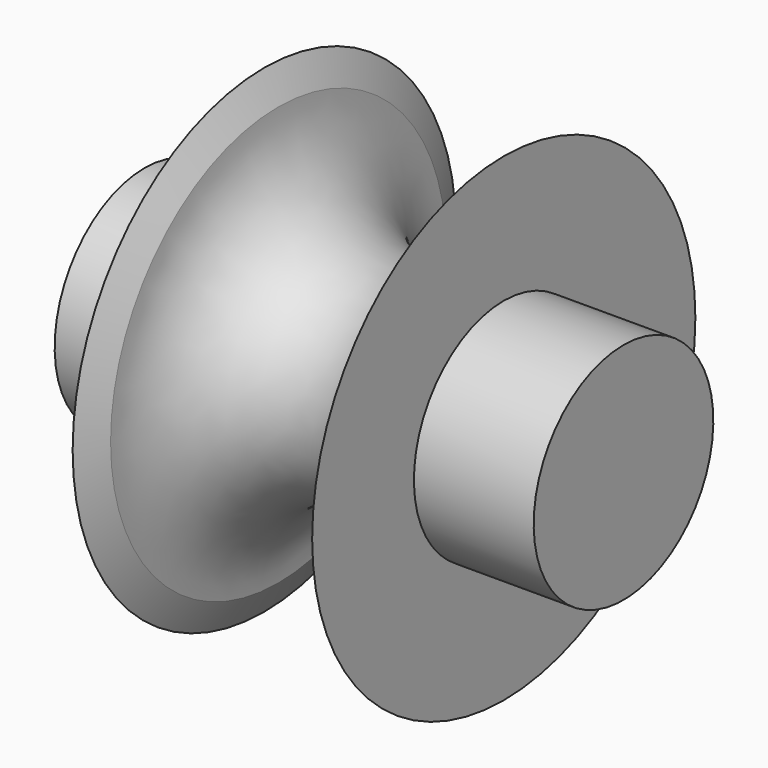
from build123d import *

# Parameters (mm, degrees)
F0_W = 12.7
F0_H = 11.90625


with BuildPart() as f1:
    # F0 (on Front) → F1 (revolve)
    with BuildSketch(Plane.XZ):
        with Locations((-31.75, 5.953125)):
            Rectangle(F0_W, F0_H)
        with BuildLine():
            Line((-25.4, 11.90625), (-25.4, 0))
            Line((-25.4, 0), (0, 0))
            Line((0, 0), (0, 11.90625))
            Line((0, 11.90625), (0, 25.4))
            Line((0, 25.4), (-1.480527, 22.225))
            ThreePointArc((-1.480527, 22.225), (-12.7, 11.005527), (-23.919473, 22.225))
            Line((-23.919473, 22.225), (-25.4, 25.4))
            Line((-25.4, 25.4), (-25.4, 11.90625))
        make_face()
        with Locations((6.35, 5.953125)):
            Rectangle(F0_W, F0_H)
    revolve(axis=Axis((-11.84914, 0, 0), (1, 0, 0)))


solid = f1.part
